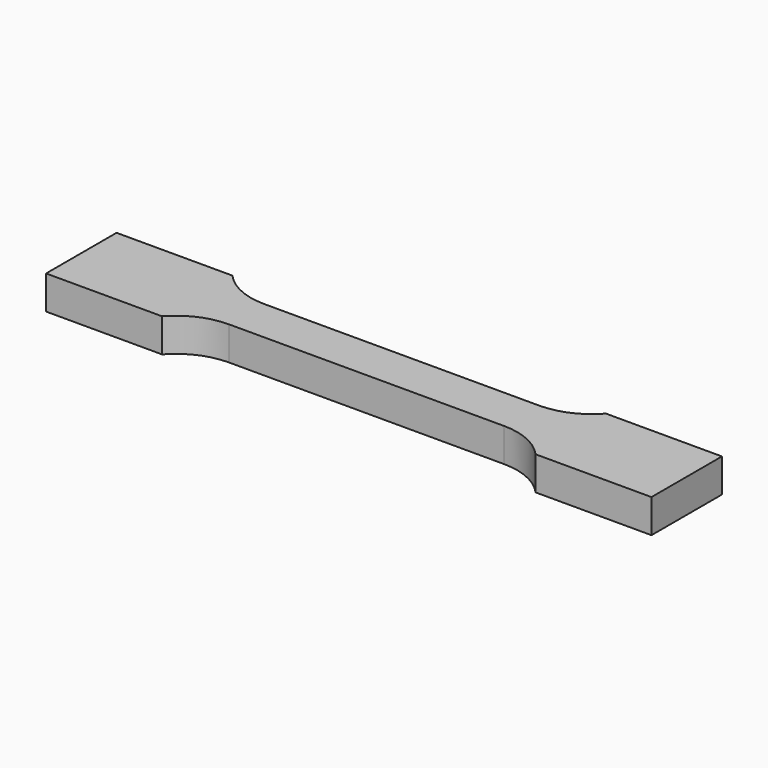
from build123d import *

# Parameters (mm, degrees)
F1_DEPTH = 3.05


with BuildPart() as f1:
    # F0 (on Top) → F1 (new body, symmetric)
    with BuildSketch(Plane.XY):
        with BuildLine():
            Line((-25, -4), (25, -4))
            ThreePointArc((25, -4), (29.8989794856, -5.0455488499), (33.94427191, -8))
            Line((33.94427191, -8), (55, -8))
            Line((55, -8), (55, 8))
            Line((55, 8), (33.94427191, 8))
            ThreePointArc((33.94427191, 8), (29.8989794856, 5.0455488499), (25, 4))
            Line((25, 4), (-25, 4))
            ThreePointArc((-25, 4), (-29.8989794856, 5.0455488499), (-33.94427191, 8))
            Line((-33.94427191, 8), (-55, 8))
            Line((-55, 8), (-55, -8))
            Line((-55, -8), (-33.94427191, -8))
            ThreePointArc((-33.94427191, -8), (-29.8989794856, -5.0455488499), (-25, -4))
        make_face()
    extrude(amount=F1_DEPTH, both=True)


solid = f1.part
